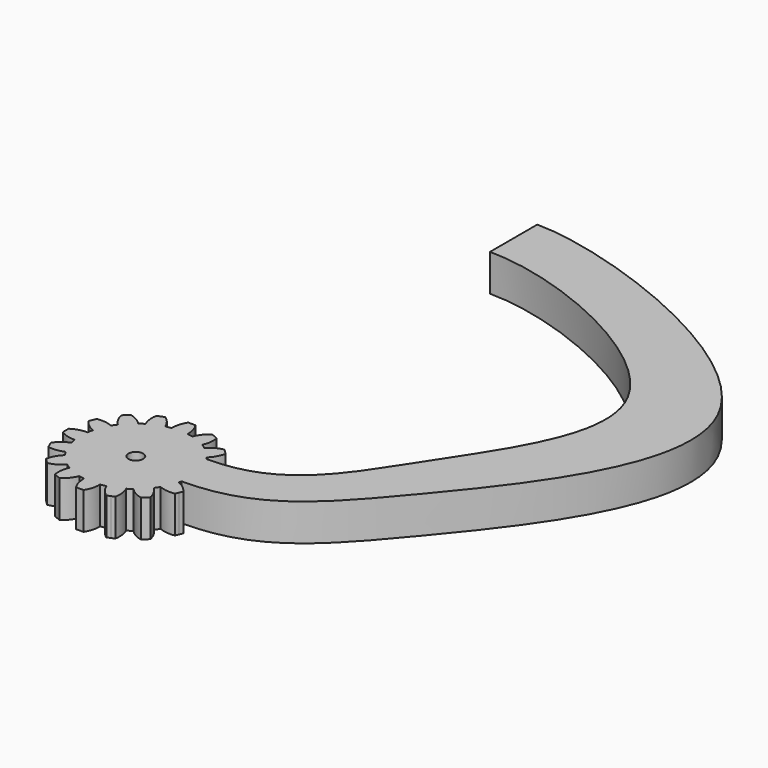
from build123d import *

# Parameters (mm, degrees)
F1_DEPTH = 5
F2_R     = 1
F3_DEPTH = 5.001
F5_DEPTH = 5


with BuildPart() as f1:
    # F0 (on Top) → F1 (new body)
    with BuildSketch(Plane.XY):
        with BuildLine():
            ThreePointArc((7.4206173165, -1.0883191822), (7.4801280027, -0.5456052265), (7.5, 0))
            ThreePointArc((7.5, 0), (7.4801280027, 0.5456052265), (7.4206173165, 1.0883191822))
            ThreePointArc((7.4206173165, 1.0883191822), (7.355889603, 1.4631774151), (7.2722381774, 1.8342714877))
            ThreePointArc((7.2722381774, 1.8342714877), (6.9290964938, 2.8701257427), (6.4392747372, 3.8452231222))
            ThreePointArc((6.4392747372, 3.8452231222), (6.2360220923, 4.1667767476), (6.0167266989, 4.4776109513))
            ThreePointArc((6.0167266989, 4.4776109513), (5.3033008589, 5.3033008589), (4.4776109513, 6.0167266989))
            ThreePointArc((4.4776109513, 6.0167266989), (4.1667767476, 6.2360220923), (3.8452231222, 6.4392747372))
            ThreePointArc((3.8452231222, 6.4392747372), (2.8701257427, 6.9290964938), (1.8342714877, 7.2722381774))
            ThreePointArc((1.8342714877, 7.2722381774), (1.4631774151, 7.355889603), (1.0883191822, 7.4206173165))
            ThreePointArc((1.0883191822, 7.4206173165), (0, 7.5), (-1.0883191822, 7.4206173165))
            ThreePointArc((-1.0883191822, 7.4206173165), (-1.4631774151, 7.355889603), (-1.8342714877, 7.2722381774))
            ThreePointArc((-1.8342714877, 7.2722381774), (-2.8701257427, 6.9290964938), (-3.8452231222, 6.4392747372))
            ThreePointArc((-3.8452231222, 6.4392747372), (-4.1667767476, 6.2360220923), (-4.4776109513, 6.0167266989))
            ThreePointArc((-4.4776109513, 6.0167266989), (-5.3033008589, 5.3033008589), (-6.0167266989, 4.4776109513))
            ThreePointArc((-6.0167266989, 4.4776109513), (-6.2360220923, 4.1667767476), (-6.4392747372, 3.8452231222))
            ThreePointArc((-6.4392747372, 3.8452231222), (-6.9290964938, 2.8701257427), (-7.2722381774, 1.8342714877))
            ThreePointArc((-7.2722381774, 1.8342714877), (-7.355889603, 1.4631774151), (-7.4206173165, 1.0883191822))
            ThreePointArc((-7.4206173165, 1.0883191822), (-7.5, 0), (-7.4206173165, -1.0883191822))
            ThreePointArc((-7.4206173165, -1.0883191822), (-7.355889603, -1.4631774151), (-7.2722381774, -1.8342714877))
            ThreePointArc((-7.2722381774, -1.8342714877), (-6.9290964938, -2.8701257427), (-6.4392747372, -3.8452231222))
            ThreePointArc((-6.4392747372, -3.8452231222), (-6.2360220923, -4.1667767476), (-6.0167266989, -4.4776109513))
            ThreePointArc((-6.0167266989, -4.4776109513), (-5.3033008589, -5.3033008589), (-4.4776109513, -6.0167266989))
            ThreePointArc((-4.4776109513, -6.0167266989), (-4.1667767476, -6.2360220923), (-3.8452231222, -6.4392747372))
            ThreePointArc((-3.8452231222, -6.4392747372), (-2.8701257427, -6.9290964938), (-1.8342714877, -7.2722381774))
            ThreePointArc((-1.8342714877, -7.2722381774), (-1.4631774151, -7.355889603), (-1.0883191822, -7.4206173165))
            ThreePointArc((-1.0883191822, -7.4206173165), (0, -7.5), (1.0883191822, -7.4206173165))
            ThreePointArc((1.0883191822, -7.4206173165), (1.4631774151, -7.355889603), (1.8342714877, -7.2722381774))
            ThreePointArc((1.8342714877, -7.2722381774), (2.8701257427, -6.9290964938), (3.8452231222, -6.4392747372))
            ThreePointArc((3.8452231222, -6.4392747372), (4.1667767476, -6.2360220923), (4.4776109513, -6.0167266989))
            ThreePointArc((4.4776109513, -6.0167266989), (5.3033008589, -5.3033008589), (6.0167266989, -4.4776109513))
            ThreePointArc((6.0167266989, -4.4776109513), (6.2360220923, -4.1667767476), (6.4392747372, -3.8452231222))
            ThreePointArc((6.4392747372, -3.8452231222), (6.9290964938, -2.8701257427), (7.2722381774, -1.8342714877))
            ThreePointArc((7.2722381774, -1.8342714877), (7.355889603, -1.4631774151), (7.4206173165, -1.0883191822))
        make_face()
        with BuildLine():
            ThreePointArc((7.4206173165, 1.0883191822), (7.4801280027, 0.5456052265), (7.5, 0))
            ThreePointArc((7.5, 0), (7.4801280027, -0.5456052265), (7.4206173165, -1.0883191822))
            ThreePointArc((7.4206173165, -1.0883191822), (8.5043518229, -0.9498278009), (9.5, -0.5))
            Line((9.5, -0.5), (9.5, 0))
            Line((9.5, 0), (9.5, 0.5))
            ThreePointArc((9.5, 0.5), (8.5043518229, 0.9498278009), (7.4206173165, 1.0883191822))
        make_face()
        with BuildLine():
            ThreePointArc((6.4392747372, 3.8452231222), (6.9290964938, 2.8701257427), (7.2722381774, 1.8342714877))
            ThreePointArc((7.2722381774, 1.8342714877), (8.2204799494, 2.376948081), (8.968197275, 3.1735528412))
            Line((8.968197275, 3.1735528412), (8.7768555589, 3.6354926075))
            Line((8.7768555589, 3.6354926075), (8.5855138427, 4.0974323737))
            ThreePointArc((8.5855138427, 4.0974323737), (7.4935132234, 4.1320010103), (6.4392747372, 3.8452231222))
        make_face()
        with BuildLine():
            ThreePointArc((8.968197275, -3.1735528412), (8.2204799494, -2.376948081), (7.2722381774, -1.8342714877))
            ThreePointArc((7.2722381774, -1.8342714877), (6.9290964938, -2.8701257427), (6.4392747372, -3.8452231222))
            ThreePointArc((6.4392747372, -3.8452231222), (7.4935132234, -4.1320010103), (8.5855138427, -4.0974323737))
            Line((8.5855138427, -4.0974323737), (8.7768555589, -3.6354926075))
            Line((8.7768555589, -3.6354926075), (8.968197275, -3.1735528412))
        make_face()
        with BuildLine():
            ThreePointArc((4.4776109513, 6.0167266989), (5.3033008589, 5.3033008589), (6.0167266989, 4.4776109513))
            ThreePointArc((6.0167266989, 4.4776109513), (6.6851145225, 5.3418551646), (7.0710678119, 6.3639610307))
            Line((7.0710678119, 6.3639610307), (6.7175144213, 6.7175144213))
            Line((6.7175144213, 6.7175144213), (6.3639610307, 7.0710678119))
            ThreePointArc((6.3639610307, 7.0710678119), (5.3418551646, 6.6851145225), (4.4776109513, 6.0167266989))
        make_face()
        with BuildLine():
            ThreePointArc((7.0710678119, -6.3639610307), (6.6851145225, -5.3418551646), (6.0167266989, -4.4776109513))
            ThreePointArc((6.0167266989, -4.4776109513), (5.3033008589, -5.3033008589), (4.4776109513, -6.0167266989))
            ThreePointArc((4.4776109513, -6.0167266989), (5.3418551646, -6.6851145225), (6.3639610307, -7.0710678119))
            Line((6.3639610307, -7.0710678119), (6.7175144213, -6.7175144213))
            Line((6.7175144213, -6.7175144213), (7.0710678119, -6.3639610307))
        make_face()
        with BuildLine():
            ThreePointArc((1.8342714877, 7.2722381774), (2.8701257427, 6.9290964938), (3.8452231222, 6.4392747372))
            ThreePointArc((3.8452231222, 6.4392747372), (4.1320010103, 7.4935132234), (4.0974323737, 8.5855138427))
            Line((4.0974323737, 8.5855138427), (3.6354926075, 8.7768555589))
            Line((3.6354926075, 8.7768555589), (3.1735528412, 8.968197275))
            ThreePointArc((3.1735528412, 8.968197275), (2.376948081, 8.2204799494), (1.8342714877, 7.2722381774))
        make_face()
        with BuildLine():
            ThreePointArc((4.0974323737, -8.5855138427), (4.1320010103, -7.4935132234), (3.8452231222, -6.4392747372))
            ThreePointArc((3.8452231222, -6.4392747372), (2.8701257427, -6.9290964938), (1.8342714877, -7.2722381774))
            ThreePointArc((1.8342714877, -7.2722381774), (2.376948081, -8.2204799494), (3.1735528412, -8.968197275))
            Line((3.1735528412, -8.968197275), (3.6354926075, -8.7768555589))
            Line((3.6354926075, -8.7768555589), (4.0974323737, -8.5855138427))
        make_face()
        with BuildLine():
            ThreePointArc((-1.0883191822, 7.4206173165), (0, 7.5), (1.0883191822, 7.4206173165))
            ThreePointArc((1.0883191822, 7.4206173165), (0.9498278009, 8.5043518229), (0.5, 9.5))
            Line((0.5, 9.5), (0, 9.5))
            Line((0, 9.5), (-0.5, 9.5))
            ThreePointArc((-0.5, 9.5), (-0.9498278009, 8.5043518229), (-1.0883191822, 7.4206173165))
        make_face()
        with BuildLine():
            ThreePointArc((0.5, -9.5), (0.9498278009, -8.5043518229), (1.0883191822, -7.4206173165))
            ThreePointArc((1.0883191822, -7.4206173165), (0, -7.5), (-1.0883191822, -7.4206173165))
            ThreePointArc((-1.0883191822, -7.4206173165), (-0.9498278009, -8.5043518229), (-0.5, -9.5))
            Line((-0.5, -9.5), (0, -9.5))
            Line((0, -9.5), (0.5, -9.5))
        make_face()
        with BuildLine():
            ThreePointArc((-3.8452231222, 6.4392747372), (-2.8701257427, 6.9290964938), (-1.8342714877, 7.2722381774))
            ThreePointArc((-1.8342714877, 7.2722381774), (-2.376948081, 8.2204799494), (-3.1735528412, 8.968197275))
            Line((-3.1735528412, 8.968197275), (-3.6354926075, 8.7768555589))
            Line((-3.6354926075, 8.7768555589), (-4.0974323737, 8.5855138427))
            ThreePointArc((-4.0974323737, 8.5855138427), (-4.1320010103, 7.4935132234), (-3.8452231222, 6.4392747372))
        make_face()
        with BuildLine():
            ThreePointArc((-3.1735528412, -8.968197275), (-2.376948081, -8.2204799494), (-1.8342714877, -7.2722381774))
            ThreePointArc((-1.8342714877, -7.2722381774), (-2.8701257427, -6.9290964938), (-3.8452231222, -6.4392747372))
            ThreePointArc((-3.8452231222, -6.4392747372), (-4.1320010103, -7.4935132234), (-4.0974323737, -8.5855138427))
            Line((-4.0974323737, -8.5855138427), (-3.6354926075, -8.7768555589))
            Line((-3.6354926075, -8.7768555589), (-3.1735528412, -8.968197275))
        make_face()
        with BuildLine():
            ThreePointArc((-6.0167266989, 4.4776109513), (-5.3033008589, 5.3033008589), (-4.4776109513, 6.0167266989))
            ThreePointArc((-4.4776109513, 6.0167266989), (-5.3418551646, 6.6851145225), (-6.3639610307, 7.0710678119))
            Line((-6.3639610307, 7.0710678119), (-6.7175144213, 6.7175144213))
            Line((-6.7175144213, 6.7175144213), (-7.0710678119, 6.3639610307))
            ThreePointArc((-7.0710678119, 6.3639610307), (-6.6851145225, 5.3418551646), (-6.0167266989, 4.4776109513))
        make_face()
        with BuildLine():
            ThreePointArc((-6.3639610307, -7.0710678119), (-5.3418551646, -6.6851145225), (-4.4776109513, -6.0167266989))
            ThreePointArc((-4.4776109513, -6.0167266989), (-5.3033008589, -5.3033008589), (-6.0167266989, -4.4776109513))
            ThreePointArc((-6.0167266989, -4.4776109513), (-6.6851145225, -5.3418551646), (-7.0710678119, -6.3639610307))
            Line((-7.0710678119, -6.3639610307), (-6.7175144213, -6.7175144213))
            Line((-6.7175144213, -6.7175144213), (-6.3639610307, -7.0710678119))
        make_face()
        with BuildLine():
            ThreePointArc((-7.2722381774, 1.8342714877), (-6.9290964938, 2.8701257427), (-6.4392747372, 3.8452231222))
            ThreePointArc((-6.4392747372, 3.8452231222), (-7.4935132234, 4.1320010103), (-8.5855138427, 4.0974323737))
            Line((-8.5855138427, 4.0974323737), (-8.7768555589, 3.6354926075))
            Line((-8.7768555589, 3.6354926075), (-8.968197275, 3.1735528412))
            ThreePointArc((-8.968197275, 3.1735528412), (-8.2204799494, 2.376948081), (-7.2722381774, 1.8342714877))
        make_face()
        with BuildLine():
            ThreePointArc((-8.5855138427, -4.0974323737), (-7.4935132234, -4.1320010103), (-6.4392747372, -3.8452231222))
            ThreePointArc((-6.4392747372, -3.8452231222), (-6.9290964938, -2.8701257427), (-7.2722381774, -1.8342714877))
            ThreePointArc((-7.2722381774, -1.8342714877), (-8.2204799494, -2.376948081), (-8.968197275, -3.1735528412))
            Line((-8.968197275, -3.1735528412), (-8.7768555589, -3.6354926075))
            Line((-8.7768555589, -3.6354926075), (-8.5855138427, -4.0974323737))
        make_face()
        with BuildLine():
            ThreePointArc((-7.4206173165, -1.0883191822), (-7.5, 0), (-7.4206173165, 1.0883191822))
            ThreePointArc((-7.4206173165, 1.0883191822), (-8.5043518229, 0.9498278009), (-9.5, 0.5))
            Line((-9.5, 0.5), (-9.5, 0))
            Line((-9.5, 0), (-9.5, -0.5))
            ThreePointArc((-9.5, -0.5), (-8.5043518229, -0.9498278009), (-7.4206173165, -1.0883191822))
        make_face()
    extrude(amount=F1_DEPTH)

    # F2 (on face) → F3 (cut, through all)
    with BuildSketch(Plane.XY.offset(5)):
        Circle(F2_R)
    extrude(amount=-F3_DEPTH, mode=Mode.SUBTRACT)

    # F4 (on Top) → F5 (join, through all)
    with BuildSketch(Plane.XY):
        with BuildLine():
            add(Edge.make_bspline(
                [(0, 68), (10, 68), (59.6051205552, 49.8296945221), (27.7128449588, 10.2653439141), (17.355889603, -1.4631774151), (7.355889603, -1.4631774151)],
                knots=[0, 0, 0, 0, 0.3848753966, 0.721401085, 1, 1, 1, 1], degree=3))
            Line((0, 68), (0, 60))
            add(Edge.make_bspline(
                [(0, 60), (10, 60), (43.7330109068, 44.8640909955), (23.495328063, 17.7260923975), (16.2360220923, 4.1667767476), (6.2360220923, 4.1667767476)],
                knots=[0, 0, 0, 0, 0.3821350883, 0.6986543171, 1, 1, 1, 1], degree=3))
            Line((6.2360220923, 4.1667767476), (7.355889603, -1.4631774151))
        make_face()
    extrude(amount=F5_DEPTH)


solid = f1.part
